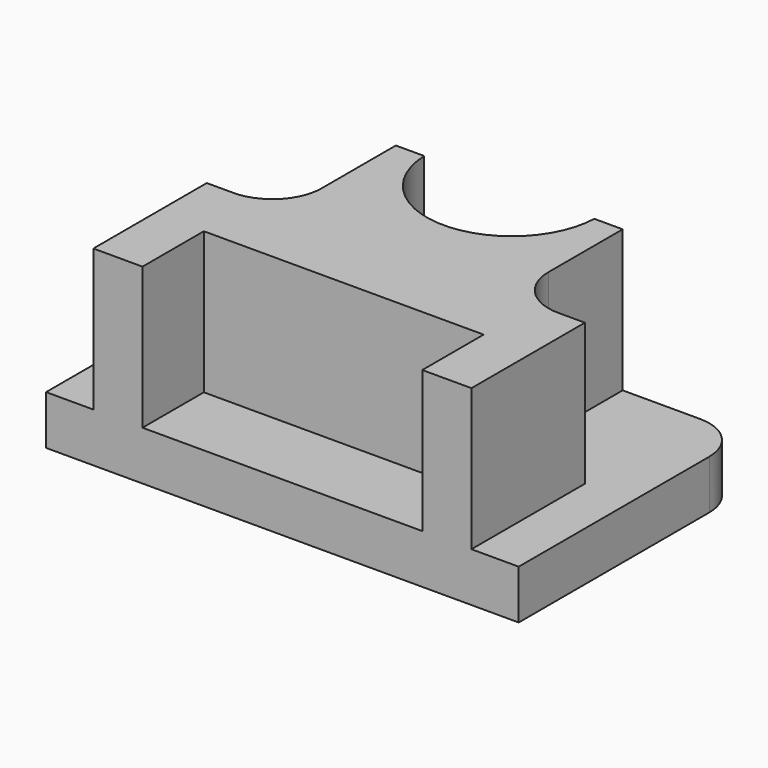
from build123d import *

# Parameters (mm, degrees)
F1_DEPTH = 6.604
F3_DEPTH = 19.05
F4_DEPTH = 25.4


with BuildPart() as f1:
    # F0 (on Top) → F1 (new body)
    with BuildSketch(Plane.XY):
        with BuildLine():
            ThreePointArc((31.75, 12.954), (29.9645229381, 17.2645229381), (25.654, 19.05))
            Line((25.654, 19.05), (-25.654, 19.05))
            ThreePointArc((-25.654, 19.05), (-29.9645229381, 17.2645229381), (-31.75, 12.954))
            Line((-31.75, 12.954), (-31.75, -19.05))
            Line((-31.75, -19.05), (31.75, -19.05))
            Line((31.75, -19.05), (31.75, 12.954))
        make_face()
    extrude(amount=F1_DEPTH)

    # F2 (on face) → F3 (join)
    with BuildSketch(Plane.XY.offset(6.604)):
        with BuildLine():
            Line((-25.4, -19.05), (-18.796, -19.05))
            Line((-18.796, -19.05), (-18.796, -8.7467487901))
            Line((-18.796, -8.7467487901), (0, -8.7467487901))
            Line((0, -8.7467487901), (18.796, -8.7467487901))
            Line((18.796, -8.7467487901), (18.796, -19.05))
            Line((18.796, -19.05), (25.4, -19.05))
            Line((25.4, -19.05), (25.4, 0))
            Line((25.4, 0), (21.844, 0))
            ThreePointArc((21.844, 0), (17.174266817, 1.934266817), (15.24, 6.604))
            Line((15.24, 6.604), (15.24, 19.05))
            Line((15.24, 19.05), (11.43, 19.05))
            ThreePointArc((11.43, 19.05), (0, 8.0444168312), (-11.43, 19.05))
            Line((-11.43, 19.05), (-15.24, 19.05))
            Line((-15.24, 19.05), (-15.24, 6.604))
            ThreePointArc((-15.24, 6.604), (-17.174266817, 1.934266817), (-21.844, 0))
            Line((-21.844, 0), (-25.4, 0))
            Line((-25.4, 0), (-25.4, -19.05))
        make_face()
    extrude(amount=F3_DEPTH)

    # F4 (cut): a face of the model
    f4_faces = [f1.faces().sort_by_distance(p)[0] for p in [
        (0, 14.3934898102, 6.604),
    ]]
    extrude(f4_faces, amount=-F4_DEPTH, mode=Mode.SUBTRACT)


solid = f1.part
